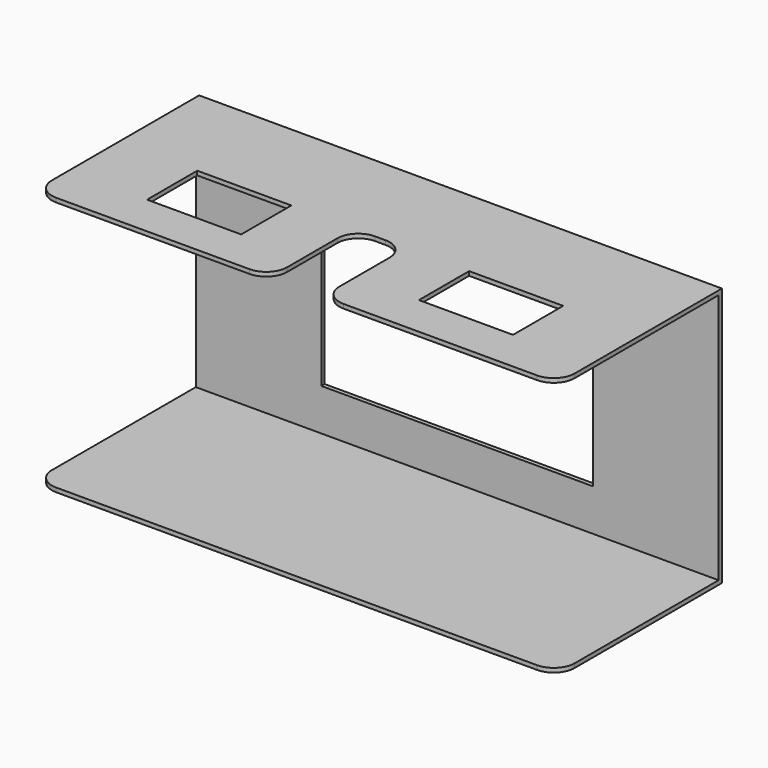
from build123d import *

# Parameters (mm, degrees)
SKETCH002_W     = 4.9
SKETCH002_H     = 0.1
SKETCH002_W_2   = 0.1
SKETCH002_H_2   = 6.1
SKETCH002_W_3   = 4.8
EXTRUDE_DEPTH   = 6.25
SKETCH003_W     = 1.25
SKETCH003_H     = 2.5
SKETCH003_W_2   = 2.25
SKETCH003_H_2   = 1.5
POCKET_DEPTH    = 5
FILLET_R        = 0.5
SKETCH005_W     = 6.5
SKETCH005_H     = 4
POCKET001_DEPTH = 5


with BuildPart() as part:
    # Sketch002 → Extrude (new body, symmetric)
    with BuildSketch(Plane.YZ):
        with Locations((0.65, 6.05)):
            Rectangle(SKETCH002_W, SKETCH002_H)
        with Locations((3.05, 2.95)):
            Rectangle(SKETCH002_W_2, SKETCH002_H_2)
        with Locations((0.6, -0.05)):
            Rectangle(SKETCH002_W_3, SKETCH002_H)
    extrude(amount=EXTRUDE_DEPTH, both=True)

    # Sketch003 (on Face9 of Extrude) → Pocket (cut)
    with BuildSketch(Plane.XY.offset(6.1)):
        with Locations((0, -0.55)):
            Rectangle(SKETCH003_W, SKETCH003_H)
        with Locations((3.25, -0.05)):
            Rectangle(SKETCH003_W_2, SKETCH003_H_2)
        with Locations((-3.25, -0.05)):
            Rectangle(SKETCH003_W_2, SKETCH003_H_2)
    extrude(amount=-POCKET_DEPTH, mode=Mode.SUBTRACT)

    # Fillet
    fillet_edges = [part.edges().sort_by_distance(p)[0] for p in [
        (0.625, -1.8, 6.05),
        (0.625, 0.7, 6.05),
        (-0.625, -1.8, 6.05),
        (-0.625, 0.7, 6.05),
        (6.25, -1.8, 6.05),
        (-6.25, -1.8, 6.05),
        (-6.25, -1.8, -0.05),
        (6.25, -1.8, -0.05),
    ]]
    fillet(fillet_edges, radius=FILLET_R)

    # Sketch005 (on Face4 of Fillet) → Pocket001 (cut)
    with BuildSketch(Plane.XZ.offset(-3)):
        with Locations((0, 3)):
            Rectangle(SKETCH005_W, SKETCH005_H)
    extrude(amount=-POCKET001_DEPTH, mode=Mode.SUBTRACT)


solid = part.part
